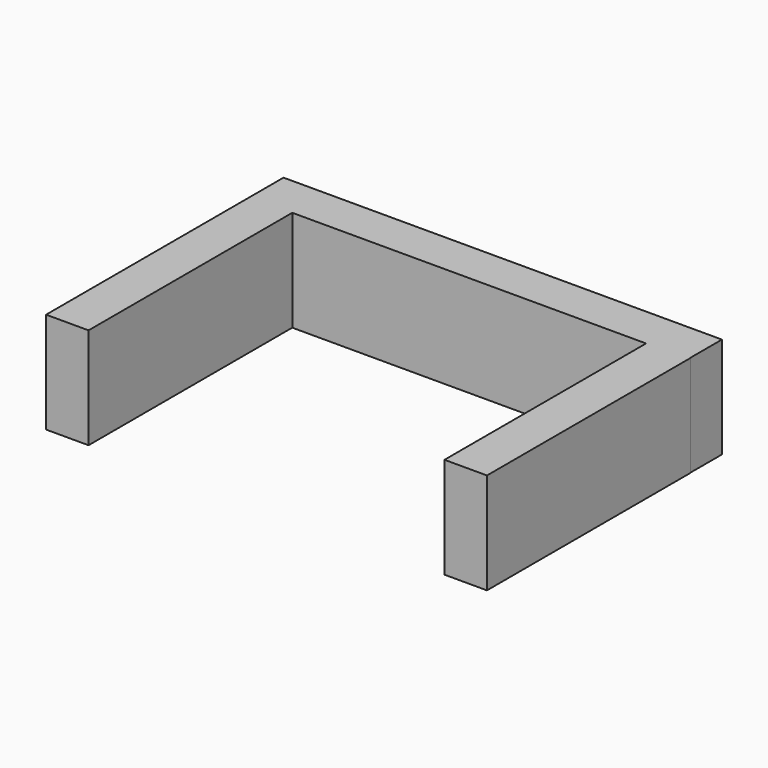
from build123d import *

# Parameters (mm, degrees)
F0_W     = 2.5180902779
F0_H     = 15.1024697029
F0_W_2   = 2.5
F0_H_2   = 0.1614799052
F1_DEPTH = 6


with BuildPart() as f1:
    # F0 (on Top) → F1 (new body)
    with BuildSketch(Plane.XY):
        Polygon((13, -0.3975302971), (13, 1.9409897977), (-13, 1.9409897977), (-13, -0.5590102023), (-10.4819097221, -0.5590102023), (10.5, -0.5590102023), (10.5, -0.3975302971), align=None)
        with Locations((-11.740954861, -8.1102450538)):
            Rectangle(F0_W, F0_H)
        Polygon((13.0180902779, -0.3975302971), (13, -0.3975302971), (13, -0.5590102023), (10.5, -0.5590102023), (10.5, -15.5), (13.0180902779, -15.5), align=None)
        with Locations((11.75, -0.4782702497)):
            Rectangle(F0_W_2, F0_H_2)
    extrude(amount=F1_DEPTH)


solid = f1.part
